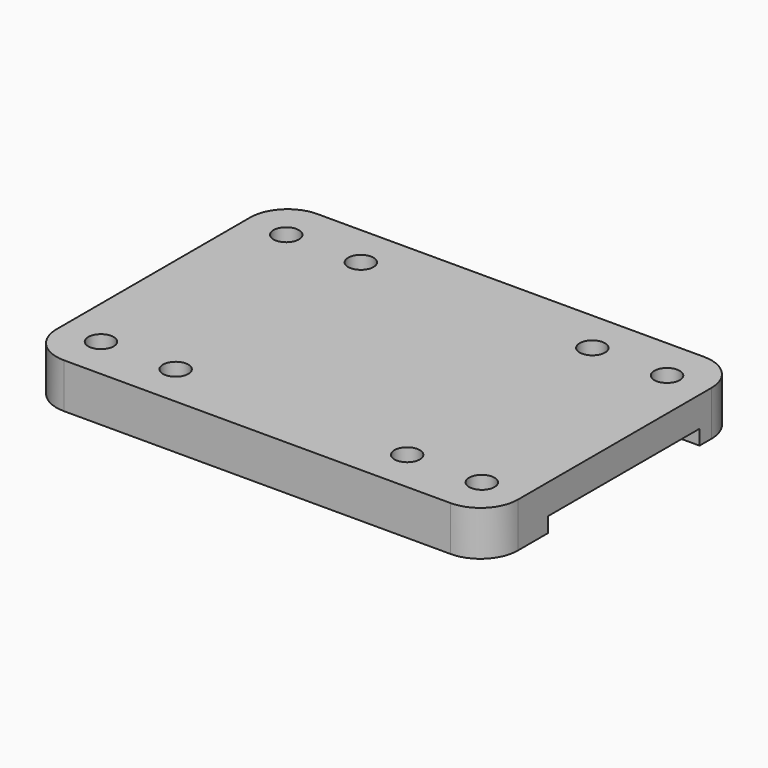
from build123d import *

# Parameters (mm, degrees)
SKETCH_W            = 61.775986
SKETCH_H            = 42.418
PAD_DEPTH           = 2
PAD_DEPTH_BACK      = 4
SKETCH001_R         = 1.7
HOLE_DEPTH          = 25
HOLE001_D           = 3.4
HOLE001_DEPTH       = 25
HOLE001_CBORE_D     = 6
HOLE001_CBORE_DEPTH = 2.4
FILLET_R            = 5
SKETCH003_W         = 25.4
SKETCH003_H         = 4.354827
POCKET_DEPTH        = 61.776986


with BuildPart() as part:
    # Sketch (on Face4 of Binder) → Pad (new body, two sides)
    with BuildSketch(Plane(origin=(0, 0, 20.8), x_dir=(1, 0, 0), z_dir=(0, 0, -1))) as pad_sk:
        with Locations((72.221347, -434.991848)):
            Rectangle(SKETCH_W, SKETCH_H)
    extrude(amount=PAD_DEPTH)
    extrude(pad_sk.sketch, amount=-PAD_DEPTH_BACK)

    # Sketch001 (on Face5 of Pad) → Hole (cut)
    with BuildSketch(Plane.XY.offset(24.8)):
        with Locations((87.721347, 450.491848)):
            Circle(SKETCH001_R)
        with Locations((56.721347, 450.491848)):
            Circle(SKETCH001_R)
        with Locations((87.721347, 419.491848)):
            Circle(SKETCH001_R)
        with Locations((56.721347, 419.491848)):
            Circle(SKETCH001_R)
        with Locations((46.721347, 419.491848)):
            Circle(SKETCH001_R)
        with Locations((46.721347, 450.491848)):
            Circle(SKETCH001_R)
        with Locations((97.721347, 419.491848)):
            Circle(SKETCH001_R)
        with Locations((97.721347, 450.491848)):
            Circle(SKETCH001_R)
    extrude(amount=-HOLE_DEPTH, mode=Mode.SUBTRACT)

    # Hole001
    with Locations(Plane(origin=(0, 0, 18.8), x_dir=(1, 0, 0), z_dir=(0, 0, -1))):
        with Locations((56.721347, -419.491848), (87.721347, -419.491848), (87.721347, -450.491848), (56.721347, -450.491848)):
            CounterBoreHole(HOLE001_D / 2, HOLE001_CBORE_D / 2, HOLE001_CBORE_DEPTH, depth=HOLE001_DEPTH)

    # Fillet
    fillet_edges = [part.edges().sort_by_distance(p)[0] for p in [
        (41.333354, 413.782848, 21.8),
        (103.10934, 413.782848, 21.8),
        (103.10934, 456.200848, 21.8),
        (41.333354, 456.200848, 21.8),
    ]]
    fillet(fillet_edges, radius=FILLET_R)

    # Sketch003 (on Face7 of Fillet) → Pocket (cut, through all)
    with BuildSketch(Plane.YZ.offset(103.10934)):
        with Locations((436.5, 18.622587)):
            Rectangle(SKETCH003_W, SKETCH003_H)
    extrude(amount=-POCKET_DEPTH, mode=Mode.SUBTRACT)


solid = part.part
